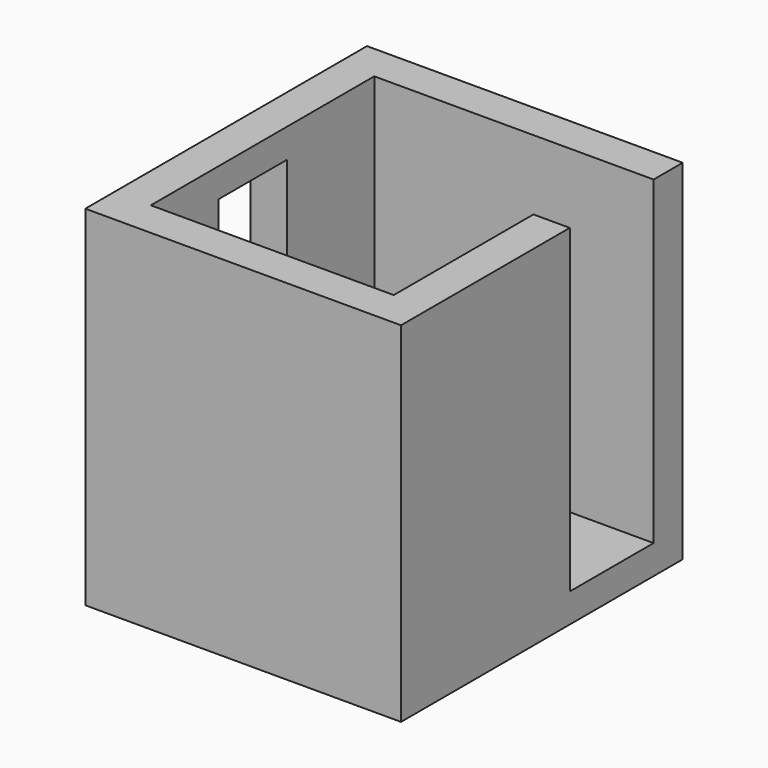
from build123d import *

# Parameters (mm, degrees)
F2_DEPTH  = 20
F3_W      = 217
F3_H      = 242
F3_W_2    = 167
F3_H_2    = 192
F4_DEPTH  = 240
F5_W      = 48
F5_H      = 72
F6_DEPTH  = 250
F7_W      = 79
F7_H      = 85
F8_DEPTH  = 25
F10_DEPTH = 25


with BuildPart() as f2:
    # F1 (on face) → F2 (new body)
    with BuildSketch(Plane.XY):
        Polygon((-497, -215), (-497, -231), (-497, -293), (-497, -407), (-330, -407), (-330, -287), (-330, -215), align=None)
    extrude(amount=F2_DEPTH)

    # F3 (on face) → F4 (join)
    with BuildSketch(Plane.XY):
        with Locations((-413.5, -311)):
            Rectangle(F3_W, F3_H)
        with Locations((-413.5, -311)):
            Rectangle(F3_W_2, F3_H_2, mode=Mode.SUBTRACT)
    extrude(amount=F4_DEPTH)

    # F5 (on face) → F6 (cut)
    with BuildSketch(Plane.XY.offset(20)):
        with Locations((-306, -251)):
            Rectangle(F5_W, F5_H)
    extrude(amount=F6_DEPTH, mode=Mode.SUBTRACT)

    # F7 (on face) → F8 (cut)
    with BuildSketch(Plane.YZ.offset(-497)):
        with Locations((-309.5, 177.5)):
            Rectangle(F7_W, F7_H)
    extrude(amount=-F8_DEPTH, mode=Mode.SUBTRACT)

    # F9 (on face) → F10 (join, through all)
    with BuildSketch(Plane.YZ.offset(-497)):
        Polygon((-270, 135), (-270, 220), (-290, 220), (-290, 155), (-349, 155), (-349, 135), align=None)
    extrude(amount=-F10_DEPTH)


solid = f2.part
